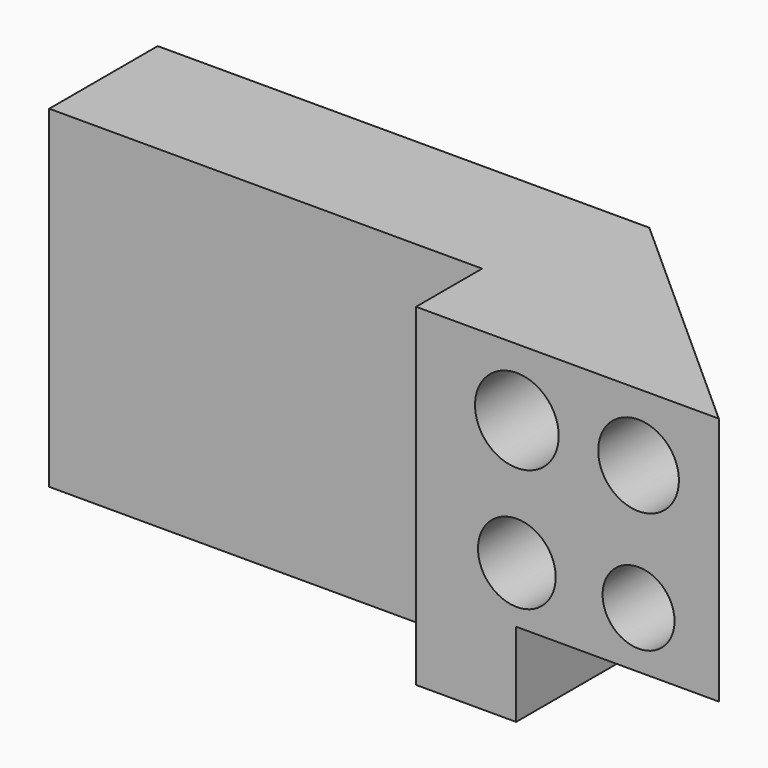
from build123d import *

# Parameters (mm, degrees)
F1_DEPTH = 54.356
F2_W     = 94.4671
F2_H     = 54.356
F3_DEPTH = 18.034
F4_R     = 8.809941
F4_R_2   = 7.847495
F4_R_3   = 8.483454
F4_R_4   = 9.135207
F5_DEPTH = 191.262
F7_DEPTH = 18.288
F8_W     = 107.277408
F8_H     = 9.586744
F9_DEPTH = 9.906


with BuildPart() as f1:
    # F0 (on Top) → F1 (new body)
    with BuildSketch(Plane.XY):
        Polygon((53.638704, 23.810977), (-53.638704, 23.810977), (-53.638704, -23.810977), (53.638704, -23.810977), (106.893361, -23.810977), align=None)
    extrude(amount=F1_DEPTH)

    # F2 (on face) → F3 (cut)
    with BuildSketch(Plane.XZ.offset(23.810977)):
        with Locations((-6.405154, 27.178)):
            Rectangle(F2_W, F2_H)
    extrude(amount=-F3_DEPTH, mode=Mode.SUBTRACT)

    # F4 (on face) → F5 (cut)
    with BuildSketch(Plane.XZ.offset(23.810977)):
        with Locations((89.389786, 39.671354)):
            Circle(F4_R)
        with Locations((89.389786, 12.305979)):
            Circle(F4_R_2)
        with Locations((62.833115, 12.305979)):
            Circle(F4_R_3)
        with Locations((62.833115, 39.671354)):
            Circle(F4_R_4)
    extrude(amount=-F5_DEPTH, mode=Mode.SUBTRACT)

    # F6 (on face) → F7 (join)
    with BuildSketch(Plane(origin=(0, 0, 0), x_dir=(1, 0, 0), z_dir=(0, 0, -1))):
        Polygon((-53.638704, -23.810977), (53.638704, -23.810977), (62.680507, -15.725519), (62.680507, 23.810977), (40.828396, 23.810977), (40.828396, 5.776977), (-53.638704, 5.776977), align=None)
    extrude(amount=F7_DEPTH)

    # F8 (on face) → F9 (cut)
    with BuildSketch(Plane(origin=(0, 23.810977, 0), x_dir=(-1, 0, 0), z_dir=(0, 1, 0))):
        with Locations((-107.277408, 23.459392)):
            Rectangle(F8_W, F8_H)
        with Locations((0, 23.459392)):
            Rectangle(F8_W, F8_H)
    extrude(amount=-F9_DEPTH, mode=Mode.SUBTRACT)


solid = f1.part
